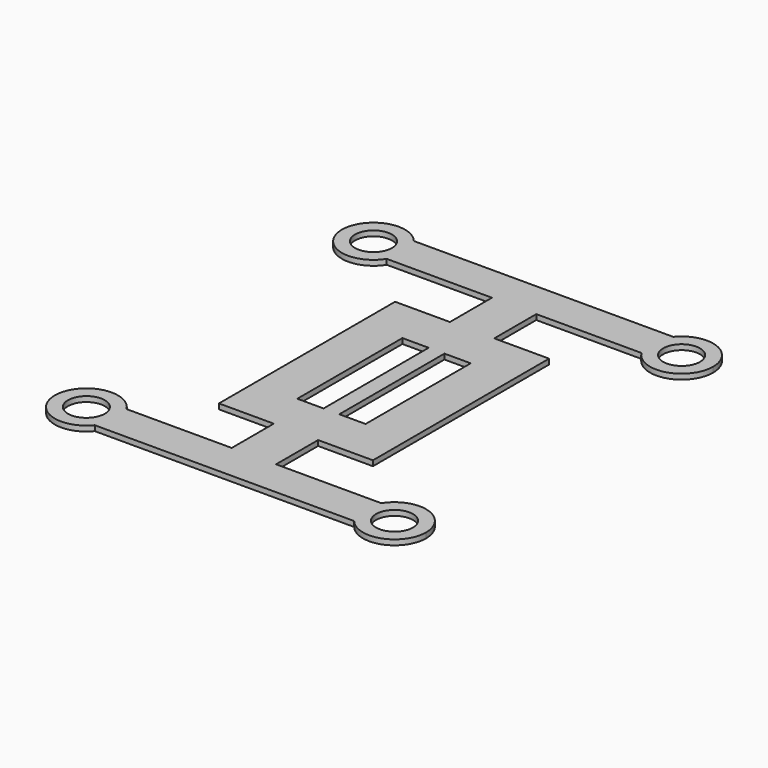
from build123d import *

# Parameters (mm, degrees)
F0_R     = 3.5
F0_W     = 5
F0_H     = 25
F1_DEPTH = 1


with BuildPart() as f1:
    # F0 (on Top) → F1 (new body)
    with BuildSketch(Plane.XY):
        with BuildLine():
            ThreePointArc((24.235588, 30.946928), (30.976758, 28.377192), (35.314001, 34.142193))
            ThreePointArc((35.314001, 34.142193), (31.334351, 39.791811), (24.674606, 37.946928))
            ThreePointArc((24.674606, 37.946928), (23.325767, 34.517756), (24.235588, 30.946928))
        make_face()
        with Locations((29.314001, 34.142193)):
            Circle(F0_R, mode=Mode.SUBTRACT)
        with BuildLine():
            ThreePointArc((24.235588, 30.946928), (23.325767, 34.517756), (24.674606, 37.946928))
            Line((24.674606, 37.946928), (0, 37.946928))
            Line((0, 37.946928), (-24.674606, 37.946928))
            ThreePointArc((-24.674606, 37.946928), (-23.664383, 36.162543), (-23.314001, 34.142193))
            ThreePointArc((-23.314001, 34.142193), (-23.549, 32.479436), (-24.235588, 30.946928))
            Line((-24.235588, 30.946928), (-4.218093, 30.946928))
            Line((-4.218093, 30.946928), (-4.218093, 20.946928))
            Line((-4.218093, 20.946928), (-14.650477, 20.946928))
            Line((-14.650477, 20.946928), (-14.650477, 0))
            Line((-14.650477, 0), (-14.650477, -20.946928))
            Line((-14.650477, -20.946928), (-4.218093, -20.946928))
            Line((-4.218093, -20.946928), (-4.218093, -30.946928))
            Line((-4.218093, -30.946928), (-24.235588, -30.946928))
            ThreePointArc((-24.235588, -30.946928), (-23.549, -32.479436), (-23.314001, -34.142193))
            ThreePointArc((-23.314001, -34.142193), (-23.664383, -36.162543), (-24.674606, -37.946928))
            Line((-24.674606, -37.946928), (0, -37.946928))
            Line((0, -37.946928), (24.674606, -37.946928))
            ThreePointArc((24.674606, -37.946928), (23.325767, -34.517756), (24.235588, -30.946928))
            Line((24.235588, -30.946928), (4.218093, -30.946928))
            Line((4.218093, -30.946928), (4.218093, -20.946928))
            Line((4.218093, -20.946928), (14.650477, -20.946928))
            Line((14.650477, -20.946928), (14.650477, 0))
            Line((14.650477, 0), (14.650477, 20.946928))
            Line((14.650477, 20.946928), (4.218093, 20.946928))
            Line((4.218093, 20.946928), (4.218093, 30.946928))
            Line((4.218093, 30.946928), (24.235588, 30.946928))
        make_face()
        with Locations((-4, 0)):
            Rectangle(F0_W, F0_H, mode=Mode.SUBTRACT)
        with Locations((4, 0)):
            Rectangle(F0_W, F0_H, mode=Mode.SUBTRACT)
        with BuildLine():
            ThreePointArc((-23.314001, 34.142193), (-23.664383, 36.162543), (-24.674606, 37.946928))
            ThreePointArc((-24.674606, 37.946928), (-35.302236, 33.76663), (-24.235588, 30.946928))
            ThreePointArc((-24.235588, 30.946928), (-23.549, 32.479436), (-23.314001, 34.142193))
        make_face()
        with Locations((-29.314001, 34.142193)):
            Circle(F0_R, mode=Mode.SUBTRACT)
        with BuildLine():
            ThreePointArc((35.314001, -34.142193), (30.976758, -28.377192), (24.235588, -30.946928))
            ThreePointArc((24.235588, -30.946928), (23.325767, -34.517756), (24.674606, -37.946928))
            ThreePointArc((24.674606, -37.946928), (31.334351, -39.791811), (35.314001, -34.142193))
        make_face()
        with Locations((29.314001, -34.142193)):
            Circle(F0_R, mode=Mode.SUBTRACT)
        with BuildLine():
            ThreePointArc((-23.314001, -34.142193), (-23.549, -32.479436), (-24.235588, -30.946928))
            ThreePointArc((-24.235588, -30.946928), (-35.302236, -33.76663), (-24.674606, -37.946928))
            ThreePointArc((-24.674606, -37.946928), (-23.664383, -36.162543), (-23.314001, -34.142193))
        make_face()
        with Locations((-29.314001, -34.142193)):
            Circle(F0_R, mode=Mode.SUBTRACT)
    extrude(amount=F1_DEPTH)


solid = f1.part
